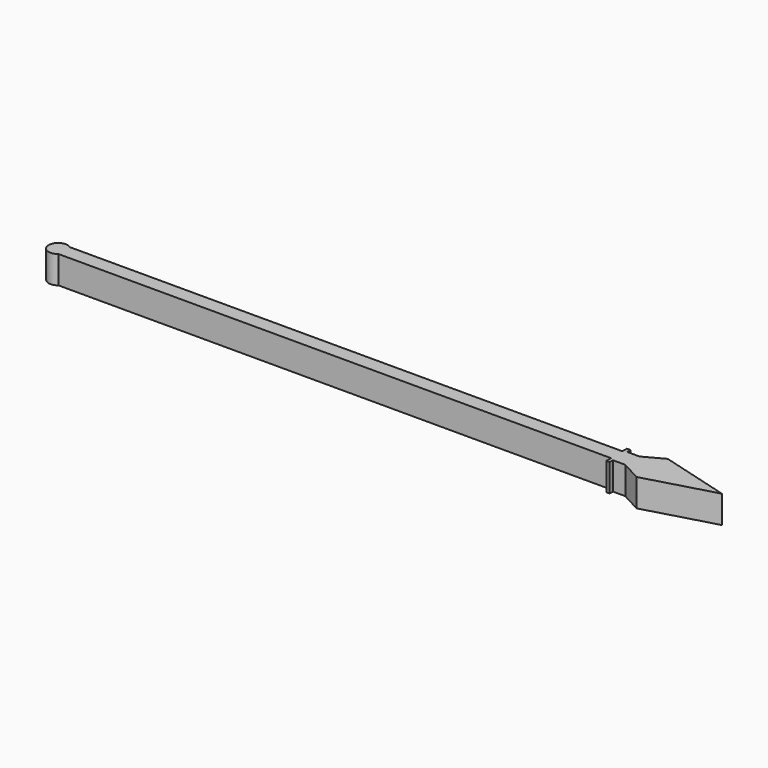
from build123d import *

# Parameters (mm, degrees)
PAD_DEPTH = 15


with BuildPart() as part:
    # Sketch001 → Pad (new body)
    with BuildSketch(Plane.XY):
        with BuildLine():
            Line((-203.120468, -3.876596), (96.879532, -3.876596))
            Line((96.879532, -7.091605), (96.879532, -3.876596))
            Line((96.879532, -7.091605), (98.646553, -7.091605))
            Line((98.646553, -7.091605), (98.646553, -4.864568))
            Line((98.646553, -4.864568), (105.327652, -4.864568))
            Line((105.327652, -4.864568), (116.029373, -10.627858))
            Line((116.029373, -10.627858), (153.887405, 0))
            Line((116.029373, 10.627858), (153.887405, 0))
            Line((105.327652, 4.864568), (116.029373, 10.627858))
            Line((98.646553, 4.864568), (105.327652, 4.864568))
            Line((98.646553, 7.091605), (98.646553, 4.864568))
            Line((96.609558, 7.091605), (98.646553, 7.091605))
            Line((96.609558, 7.091605), (96.609558, 4.065819))
            Line((-203.356306, 4.065819), (96.609558, 4.065819))
            ThreePointArc((-203.356306, 4.065819), (-211.516091, -0.151182), (-203.120468, -3.876596))
        make_face()
    extrude(amount=PAD_DEPTH)


solid = part.part
